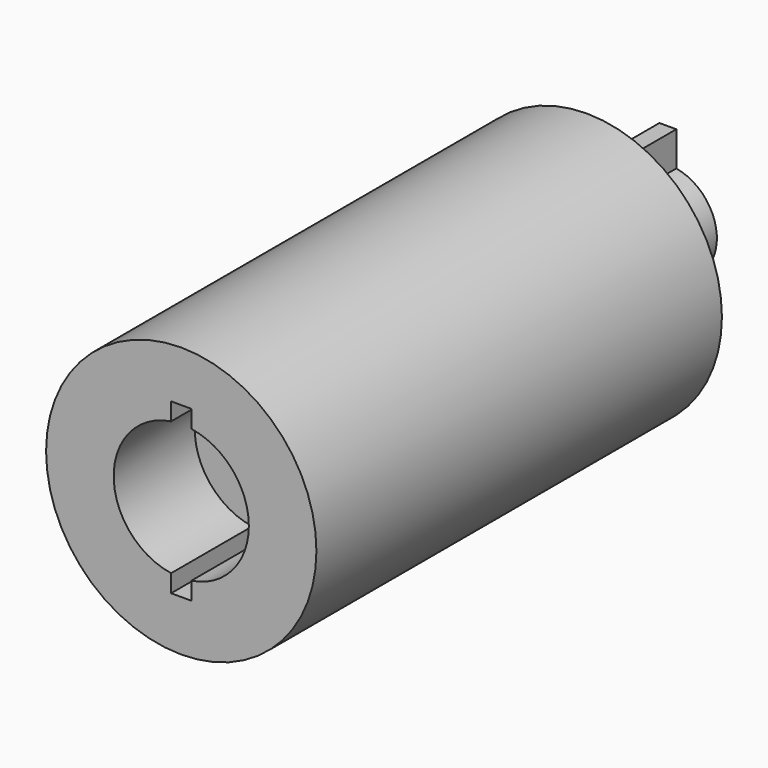
from build123d import *

# Parameters (mm, degrees)
F0_R     = 4
F1_DEPTH = 15
F2_DEPTH = 3
F4_DEPTH = 3


with BuildPart() as f1:
    # F0 (on Front) → F1 (new body)
    with BuildSketch(Plane.XZ):
        Circle(F0_R)
        with BuildLine():
            ThreePointArc((0.3, 1.9773719933), (1.5165750888, 1.303840481), (2, 0))
            ThreePointArc((2, 0), (1.5165750888, -1.303840481), (0.3, -1.9773719933))
            Line((0.3, -1.9773719933), (0.3, -2.5))
            Line((0.3, -2.5), (-0.3, -2.5))
            Line((-0.3, -2.5), (-0.3, -1.9773719933))
            ThreePointArc((-0.3, -1.9773719933), (-2, 0), (-0.3, 1.9773719933))
            Line((-0.3, 1.9773719933), (-0.3, 2.5))
            Line((-0.3, 2.5), (0.3, 2.5))
            Line((0.3, 2.5), (0.3, 1.9773719933))
        make_face(mode=Mode.SUBTRACT)
        with BuildLine():
            ThreePointArc((0.3, -1.9773719933), (1.5165750888, -1.303840481), (2, 0))
            ThreePointArc((2, 0), (1.5165750888, 1.303840481), (0.3, 1.9773719933))
            Line((0.3, 1.9773719933), (0.3, -1.9773719933))
        make_face()
        with BuildLine():
            Line((-0.3, -1.9773719933), (-0.3, 1.9773719933))
            ThreePointArc((-0.3, 1.9773719933), (-2, 0), (-0.3, -1.9773719933))
        make_face()
        with BuildLine():
            Line((0.3, -1.9773719933), (0.3, 1.9773719933))
            ThreePointArc((0.3, 1.9773719933), (0, 2), (-0.3, 1.9773719933))
            Line((-0.3, 1.9773719933), (-0.3, -1.9773719933))
            ThreePointArc((-0.3, -1.9773719933), (0, -2), (0.3, -1.9773719933))
        make_face()
        with BuildLine():
            ThreePointArc((-0.3, 1.9773719933), (0, 2), (0.3, 1.9773719933))
            Line((0.3, 1.9773719933), (0.3, 2.5))
            Line((0.3, 2.5), (-0.3, 2.5))
            Line((-0.3, 2.5), (-0.3, 1.9773719933))
        make_face()
        with BuildLine():
            Line((0.3, -2.5), (0.3, -1.9773719933))
            ThreePointArc((0.3, -1.9773719933), (0, -2), (-0.3, -1.9773719933))
            Line((-0.3, -1.9773719933), (-0.3, -2.5))
            Line((-0.3, -2.5), (0.3, -2.5))
        make_face()
    extrude(amount=-F1_DEPTH)

    # F0 (on Front) → F2 (cut)
    with BuildSketch(Plane.XZ):
        with BuildLine():
            Line((0.3, -1.9773719933), (0.3, 1.9773719933))
            ThreePointArc((0.3, 1.9773719933), (0, 2), (-0.3, 1.9773719933))
            Line((-0.3, 1.9773719933), (-0.3, -1.9773719933))
            ThreePointArc((-0.3, -1.9773719933), (0, -2), (0.3, -1.9773719933))
        make_face()
        with BuildLine():
            ThreePointArc((0.3, -1.9773719933), (1.5165750888, -1.303840481), (2, 0))
            ThreePointArc((2, 0), (1.5165750888, 1.303840481), (0.3, 1.9773719933))
            Line((0.3, 1.9773719933), (0.3, -1.9773719933))
        make_face()
        with BuildLine():
            ThreePointArc((-0.3, 1.9773719933), (0, 2), (0.3, 1.9773719933))
            Line((0.3, 1.9773719933), (0.3, 2.5))
            Line((0.3, 2.5), (-0.3, 2.5))
            Line((-0.3, 2.5), (-0.3, 1.9773719933))
        make_face()
        with BuildLine():
            Line((-0.3, -1.9773719933), (-0.3, 1.9773719933))
            ThreePointArc((-0.3, 1.9773719933), (-2, 0), (-0.3, -1.9773719933))
        make_face()
        with BuildLine():
            Line((0.3, -2.5), (0.3, -1.9773719933))
            ThreePointArc((0.3, -1.9773719933), (0, -2), (-0.3, -1.9773719933))
            Line((-0.3, -1.9773719933), (-0.3, -2.5))
            Line((-0.3, -2.5), (0.3, -2.5))
        make_face()
    extrude(amount=-F2_DEPTH, mode=Mode.SUBTRACT)

    # F3 (on face) → F4 (join)
    with BuildSketch(Plane(origin=(0, 15, 0), x_dir=(-1, 0, 0), z_dir=(0, 1, 0))):
        with BuildLine():
            Line((-0.25, -1.4282856857), (-0.25, 1.4282856857))
            ThreePointArc((-0.25, 1.4282856857), (-1.45, 0), (-0.25, -1.4282856857))
        make_face()
        with BuildLine():
            Line((0.25, -1.4282856857), (0.25, 1.4282856857))
            ThreePointArc((0.25, 1.4282856857), (0, 1.45), (-0.25, 1.4282856857))
            Line((-0.25, 1.4282856857), (-0.25, -1.4282856857))
            ThreePointArc((-0.25, -1.4282856857), (0, -1.45), (0.25, -1.4282856857))
        make_face()
        with BuildLine():
            ThreePointArc((0.25, -1.4282856857), (1.1101801656, -0.9327379053), (1.45, 0))
            ThreePointArc((1.45, 0), (1.1101801656, 0.9327379053), (0.25, 1.4282856857))
            Line((0.25, 1.4282856857), (0.25, -1.4282856857))
        make_face()
        with BuildLine():
            ThreePointArc((-0.25, 1.4282856857), (0, 1.45), (0.25, 1.4282856857))
            Line((0.25, 1.4282856857), (0.25, 2.45))
            Line((0.25, 2.45), (-0.25, 2.45))
            Line((-0.25, 2.45), (-0.25, 1.4282856857))
        make_face()
        with BuildLine():
            Line((0.25, -2.45), (0.25, -1.4282856857))
            ThreePointArc((0.25, -1.4282856857), (0, -1.45), (-0.25, -1.4282856857))
            Line((-0.25, -1.4282856857), (-0.25, -2.45))
            Line((-0.25, -2.45), (0.25, -2.45))
        make_face()
    extrude(amount=F4_DEPTH)


solid = f1.part
